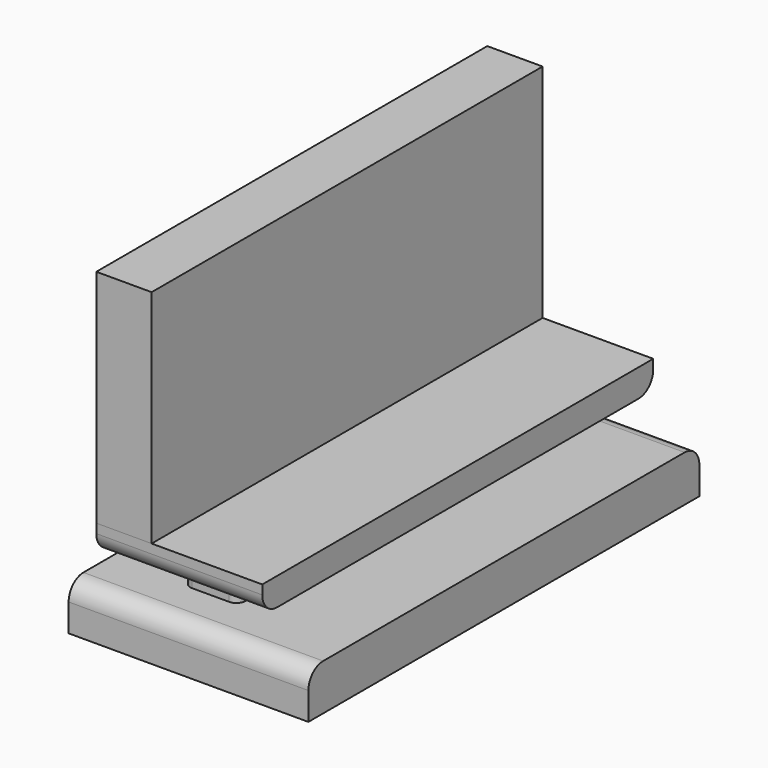
from build123d import *

# Parameters (mm, degrees)
SKETCH003_W      = 6
SKETCH003_H      = 53
EXTRUDE003_DEPTH = 24
SKETCH_W         = 26
SKETCH_H         = 53
EXTRUDE_DEPTH    = 5
FILLET001_R      = 2
SKETCH002_W      = 18
SKETCH002_H      = 53
EXTRUDE002_DEPTH = 3
FILLET_R         = 2
FILLET002_R      = 2
SKETCH001_W      = 6
SKETCH001_H      = 41
EXTRUDE001_DEPTH = 3.5
FILLET003_R      = 1


with BuildPart() as extrude003:
    # Sketch003 (on Face6 of Extrude002) → Extrude003 (new body)
    with BuildSketch(Plane.XY.offset(11.5)):
        with Locations((-20, 26.5)):
            Rectangle(SKETCH003_W, SKETCH003_H)
    extrude(amount=EXTRUDE003_DEPTH)


with BuildPart() as fillet001:
    # Sketch → Extrude (new body)
    with BuildSketch(Plane.XY):
        with Locations((-13, 26.5)):
            Rectangle(SKETCH_W, SKETCH_H)
    extrude(amount=EXTRUDE_DEPTH)

    # Fillet001
    fillet001_edges = [fillet001.edges().sort_by_distance(p)[0] for p in [
        (-13, 0, 5),
        (-13, 53, 5),
    ]]
    fillet(fillet001_edges, radius=FILLET001_R)


with BuildPart() as fillet002:
    # Sketch002 (on Face6 of Extrude001) → Extrude002 (new body)
    with BuildSketch(Plane.XY.offset(8.5)):
        with Locations((-14, 26.5)):
            Rectangle(SKETCH002_W, SKETCH002_H)
    extrude(amount=EXTRUDE002_DEPTH)

    # Fillet
    fillet_edges = [fillet002.edges().sort_by_distance(p)[0] for p in [
        (-14, 0, 8.5),
    ]]
    fillet(fillet_edges, radius=FILLET_R)

    # Fillet002
    fillet002_edges = [fillet002.edges().sort_by_distance(p)[0] for p in [
        (-14, 53, 8.5),
    ]]
    fillet(fillet002_edges, radius=FILLET002_R)


with BuildPart() as fillet003:
    # Sketch001 (on Face6 of Extrude) → Extrude001 (new body)
    with BuildSketch(Plane.XY.offset(5)):
        with Locations((-15, 26)):
            Rectangle(SKETCH001_W, SKETCH001_H)
    extrude(amount=EXTRUDE001_DEPTH)

    # Fillet003
    fillet003_edges = [fillet003.edges().sort_by_distance(p)[0] for p in [
        (-18, 46.5, 6.75),
        (-12, 46.5, 6.75),
        (-12, 5.5, 6.75),
        (-18, 5.5, 6.75),
    ]]
    fillet(fillet003_edges, radius=FILLET003_R)


solid = Compound([extrude003.part, fillet001.part, fillet002.part, fillet003.part])
